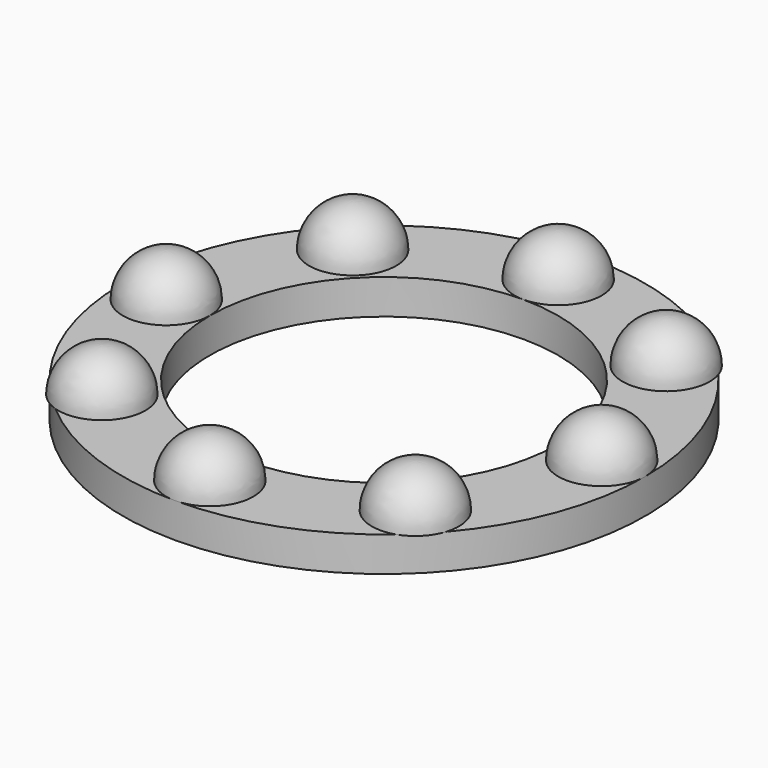
from build123d import *

# Parameters (mm, degrees)
CYLINDER003001001005001003001001_R     = 1
CYLINDER003001001005001003001001_DEPTH = 5
CYLINDER003001001001002001001_R        = 1
CYLINDER003001001001002001001_DEPTH    = 5
CYLINDER003001001005001004001_R        = 1
CYLINDER003001001005001004001_DEPTH    = 4
CYLINDER003001001001003001_R           = 1
CYLINDER003001001001003001_DEPTH       = 4
CYLINDER003001001003001001_R           = 10
CYLINDER003001001003001001_DEPTH       = 2
CYLINDER003001001003002_R              = 15
CYLINDER003001001003002_DEPTH          = 2
CUT002005_ROLL_ANGLE                   = 180
CUT002005_PLACEMENT_ANGLE              = -90


with BuildPart() as cylinder003001001005001003001001:
    # Cylinder003001001005001003001001 → Cylinder003001001005001003001001 (new body)
    with BuildSketch(Plane(origin=(-3, -3, 26), x_dir=(1, 0, 0), z_dir=(0, 0, 1))):
        Circle(CYLINDER003001001005001003001001_R)
    extrude(amount=CYLINDER003001001005001003001001_DEPTH)


with BuildPart() as cylinder003001001001002001001:
    # Cylinder003001001001002001001 → Cylinder003001001001002001001 (new body)
    with BuildSketch(Plane(origin=(15, -3, 26), x_dir=(1, 0, 0), z_dir=(0, 0, 1))):
        Circle(CYLINDER003001001001002001001_R)
    extrude(amount=CYLINDER003001001001002001001_DEPTH)


with BuildPart() as cylinder003001001005001004001:
    # Cylinder003001001005001004001 → Cylinder003001001005001004001 (new body)
    with BuildSketch(Plane(origin=(-6.5, 6, 26), x_dir=(1, 0, 0), z_dir=(0, 0, 1))):
        Circle(CYLINDER003001001005001004001_R)
    extrude(amount=CYLINDER003001001005001004001_DEPTH)


with BuildPart() as cylinder003001001001003001:
    # Cylinder003001001001003001 → Cylinder003001001001003001 (new body)
    with BuildSketch(Plane(origin=(18.5, 6, 26), x_dir=(1, 0, 0), z_dir=(0, 0, 1))):
        Circle(CYLINDER003001001001003001_R)
    extrude(amount=CYLINDER003001001001003001_DEPTH)


with BuildPart() as fusion013001:
    # Cylinder003001001003001001 → Cylinder003001001003001001 (new body)
    with BuildSketch(Plane(origin=(6, 6, 26), x_dir=(1, 0, 0), z_dir=(0, 0, 1))):
        Circle(CYLINDER003001001003001001_R)
    extrude(amount=CYLINDER003001001003001001_DEPTH)

    # Fusion013001: union Cylinder003001001005001003001001, Cylinder003001001001002001001, Cylinder003001001005001004001, Cylinder003001001001003001
    add(cylinder003001001005001003001001.part)
    add(cylinder003001001001002001001.part)
    add(cylinder003001001005001004001.part)
    add(cylinder003001001001003001.part)


with BuildPart() as cylinder003001001003002:
    # Cylinder003001001003002 → Cylinder003001001003002 (new body)
    with BuildSketch(Plane(origin=(6, 6, 26), x_dir=(1, 0, 0), z_dir=(0, 0, 1))):
        Circle(CYLINDER003001001003002_R)
    extrude(amount=CYLINDER003001001003002_DEPTH)


with BuildPart() as sphere001001001001001001001003:
    # Sphere001001001001001001005 → Sphere001001001001001001005 (revolve)
    with BuildSketch(Plane(origin=(-3, 15, 26), x_dir=(1, 0, 0), z_dir=(0, -1, 0))):
        with BuildLine():
            ThreePointArc((0, -2.5), (1.767767, -1.767767), (2.5, 0))
            Line((2.5, 0), (0, 0))
            Line((0, 0), (0, -2.5))
        make_face()
    revolve(axis=Axis((-3, 15, 26), (0, 0, 1)))


with BuildPart() as sphere001001001001001001001006:
    # Sphere001001001001001001008 → Sphere001001001001001001008 (revolve)
    with BuildSketch(Plane(origin=(6, -6.5, 26), x_dir=(1, 0, 0), z_dir=(0, -1, 0))):
        with BuildLine():
            ThreePointArc((0, -2.5), (1.767767, -1.767767), (2.5, 0))
            Line((2.5, 0), (0, 0))
            Line((0, 0), (0, -2.5))
        make_face()
    revolve(axis=Axis((6, -6.5, 26), (0, 0, 1)))


with BuildPart() as sphere001001001001001001001004:
    # Sphere001001001001001001006 → Sphere001001001001001001006 (revolve)
    with BuildSketch(Plane(origin=(-6.5, 6, 26), x_dir=(1, 0, 0), z_dir=(0, -1, 0))):
        with BuildLine():
            ThreePointArc((0, -2.5), (1.767767, -1.767767), (2.5, 0))
            Line((2.5, 0), (0, 0))
            Line((0, 0), (0, -2.5))
        make_face()
    revolve(axis=Axis((-6.5, 6, 26), (0, 0, 1)))


with BuildPart() as sphere001001001001001001003:
    # Sphere001001001001001001003 → Sphere001001001001001001003 (revolve)
    with BuildSketch(Plane(origin=(15, -3, 26), x_dir=(1, 0, 0), z_dir=(0, -1, 0))):
        with BuildLine():
            ThreePointArc((0, -2.5), (1.767767, -1.767767), (2.5, 0))
            Line((2.5, 0), (0, 0))
            Line((0, 0), (0, -2.5))
        make_face()
    revolve(axis=Axis((15, -3, 26), (0, 0, 1)))


with BuildPart() as sphere001001001001001001001002:
    # Sphere001001001001001001004 → Sphere001001001001001001004 (revolve)
    with BuildSketch(Plane(origin=(15, 15, 26), x_dir=(1, 0, 0), z_dir=(0, -1, 0))):
        with BuildLine():
            ThreePointArc((0, -2.5), (1.767767, -1.767767), (2.5, 0))
            Line((2.5, 0), (0, 0))
            Line((0, 0), (0, -2.5))
        make_face()
    revolve(axis=Axis((15, 15, 26), (0, 0, 1)))


with BuildPart() as sphere001001001001001001001007:
    # Sphere001001001001001001001001 → Sphere001001001001001001001001 (revolve)
    with BuildSketch(Plane(origin=(6, 18.5, 26), x_dir=(1, 0, 0), z_dir=(0, -1, 0))):
        with BuildLine():
            ThreePointArc((0, -2.5), (1.767767, -1.767767), (2.5, 0))
            Line((2.5, 0), (0, 0))
            Line((0, 0), (0, -2.5))
        make_face()
    revolve(axis=Axis((6, 18.5, 26), (0, 0, 1)))


with BuildPart() as sphere001001001001001001001005:
    # Sphere001001001001001001007 → Sphere001001001001001001007 (revolve)
    with BuildSketch(Plane(origin=(18.5, 6, 26), x_dir=(1, 0, 0), z_dir=(0, -1, 0))):
        with BuildLine():
            ThreePointArc((0, -2.5), (1.767767, -1.767767), (2.5, 0))
            Line((2.5, 0), (0, 0))
            Line((0, 0), (0, -2.5))
        make_face()
    revolve(axis=Axis((18.5, 6, 26), (0, 0, 1)))


with BuildPart() as guide2:
    # Sphere001001001001001001002 → Sphere001001001001001001002 (revolve)
    with BuildSketch(Plane(origin=(-3, -3, 26), x_dir=(1, 0, 0), z_dir=(0, -1, 0))):
        with BuildLine():
            ThreePointArc((0, -2.5), (1.767767, -1.767767), (2.5, 0))
            Line((2.5, 0), (0, 0))
            Line((0, 0), (0, -2.5))
        make_face()
    revolve(axis=Axis((-3, -3, 26), (0, 0, 1)))

    # Fusion014: union Cylinder003001001003002, Sphere001001001001001001001003, Sphere001001001001001001001006, Sphere001001001001001001001004, Sphere001001001001001001003, Sphere001001001001001001001002, Sphere001001001001001001001007, Sphere001001001001001001001005
    add(cylinder003001001003002.part)
    add(sphere001001001001001001001003.part)
    add(sphere001001001001001001001006.part)
    add(sphere001001001001001001001004.part)
    add(sphere001001001001001001003.part)
    add(sphere001001001001001001001002.part)
    add(sphere001001001001001001001007.part)
    add(sphere001001001001001001001005.part)

    # Cut002005: cut Fusion013001
    add(fusion013001.part, mode=Mode.SUBTRACT)


with BuildPart() as guide2_1:
    # Cut002005 roll: moved
    add(guide2.part.rotate(Axis((0, 0, 0), (1, 0, 0)), CUT002005_ROLL_ANGLE))


with BuildPart() as guide2_2:
    # Cut002005 placement: moved
    add(guide2_1.part.moved(Location((80, 36, 62))).rotate(Axis((80, 36, 62), (0, 0, 1)), CUT002005_PLACEMENT_ANGLE))


solid = guide2_2.part
